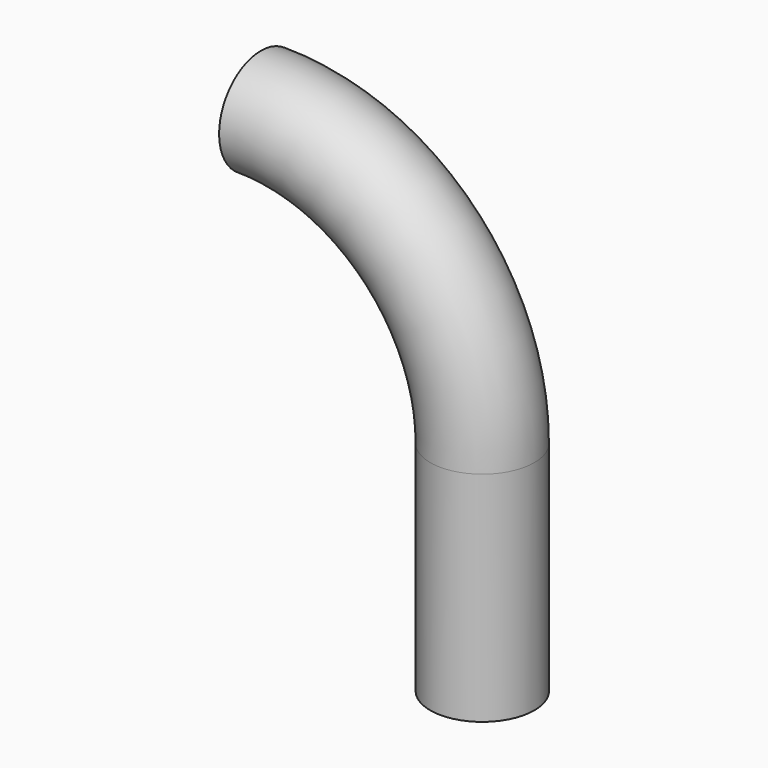
from build123d import *

# Parameters (mm, degrees)
F2_R     = 203.2
F3_ANGLE = 90
F4_T     = -3.175
F5_R     = 203.2
F5_R_2   = 200.025
F6_DEPTH = 850.9


with BuildPart() as f3:
    # F2 (on line) → F3 (revolve)
    with BuildSketch(Plane.XY.offset(850.9)):
        Circle(F2_R)
    revolve(axis=Axis((-864.3192648888, -89.1097486019, 850.9), (0, -1, 0)), revolution_arc=F3_ANGLE)

    # F4
    f4_openings = [f3.faces().sort_by_distance(p)[0] for p in [
        (-864.319265, 0, 1715.219265),
        (0, 0, 850.9),
    ]]
    offset(amount=F4_T, openings=f4_openings, kind=Kind.INTERSECTION)


with BuildPart() as f6:
    # F5 (on Top) → F6 (new body)
    with BuildSketch(Plane.XY):
        Circle(F5_R)
        Circle(F5_R_2, mode=Mode.SUBTRACT)
    extrude(amount=F6_DEPTH)


solid = Compound([f3.part, f6.part])
